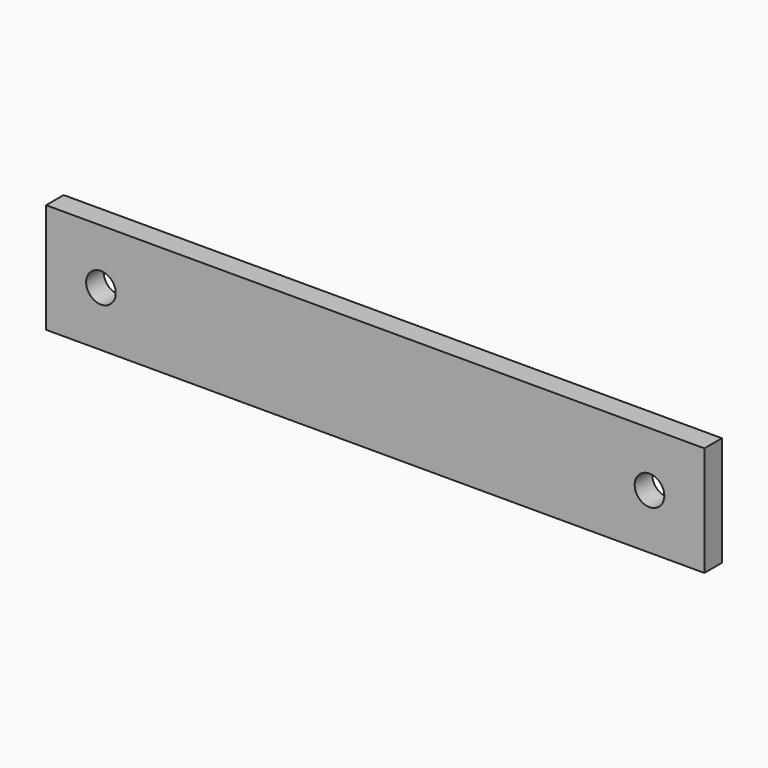
from build123d import *

# Parameters (mm, degrees)
F0_W     = 76.2
F0_H     = 12.7
F0_R     = 1.7145
F1_DEPTH = 1.27


with BuildPart() as f1:
    # F0 (on Front) → F1 (new body, symmetric)
    with BuildSketch(Plane.XZ):
        with Locations((3.346316, 23.209781)):
            Rectangle(F0_W, F0_H)
        with Locations((35.096316, 23.209781)):
            Circle(F0_R, mode=Mode.SUBTRACT)
        with Locations((-28.403684, 23.209781)):
            Circle(F0_R, mode=Mode.SUBTRACT)
    extrude(amount=F1_DEPTH, both=True)


solid = f1.part
